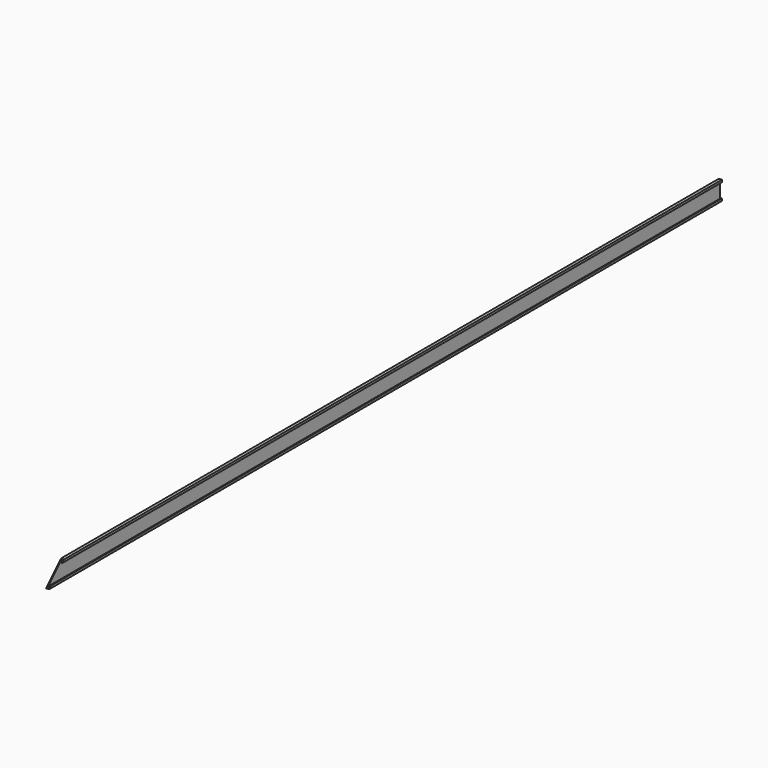
from build123d import *

# Parameters (mm, degrees)
F1_DEPTH = 2250
F3_DEPTH = 25


with BuildPart() as f1:
    # F0 (on Front) → F1 (new body, symmetric)
    with BuildSketch(Plane.XZ):
        Polygon((0, 100), (0, 0), (16, 0), (16, 12), (11, 12), (11, 5), (5, 5), (5, 95), (11, 95), (11, 88), (16, 88), (16, 100), align=None)
    extrude(amount=F1_DEPTH, both=True)

    # F2 (on face) → F3 (cut)
    with BuildSketch(Plane(origin=(0, 0, 0), x_dir=(0, -1, 0), z_dir=(-1, 0, 0))):
        Polygon((2150, 100), (2250, 0), (2250, 100), align=None)
    extrude(amount=-F3_DEPTH, mode=Mode.SUBTRACT)


solid = f1.part
